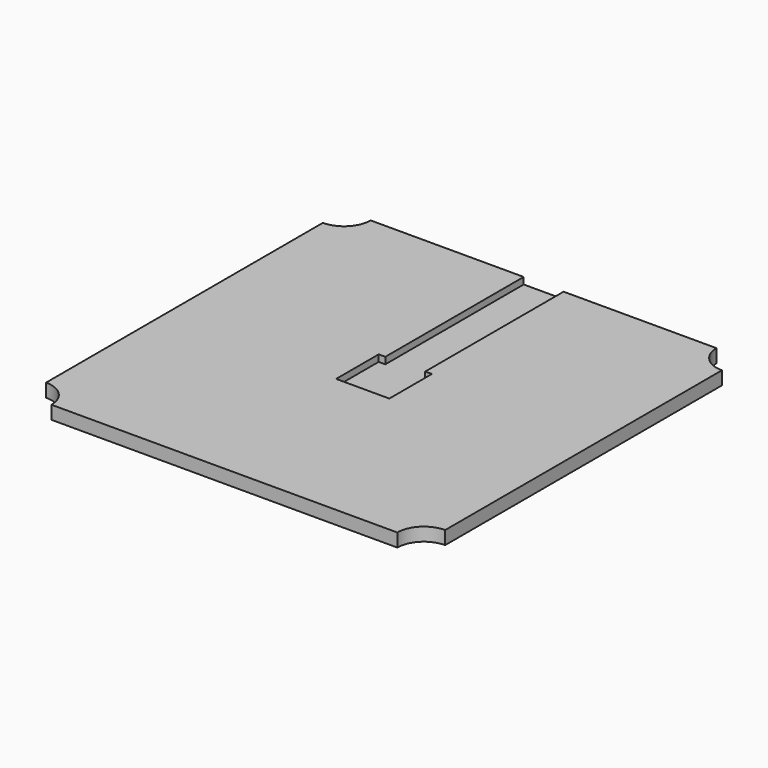
from build123d import *

# Parameters (mm, degrees)
F2_DEPTH = 10
F1_W     = 30
F1_H     = 130
F3_DEPTH = 5


with BuildPart() as f2:
    # F0 (on Top) → F2 (new body)
    with BuildSketch(Plane.XY):
        with BuildLine():
            Line((130, 150), (-130, 150))
            ThreePointArc((-130, 150), (-135.857864, 135.857864), (-150, 130))
            Line((-150, 130), (-150, -130))
            ThreePointArc((-150, -130), (-135.857864, -135.857864), (-130, -150))
            Line((-130, -150), (130, -150))
            ThreePointArc((130, -150), (135.857864, -135.857864), (150, -130))
            Line((150, -130), (150, 130))
            ThreePointArc((150, 130), (135.857864, 135.857864), (130, 150))
        make_face()
    extrude(amount=-F2_DEPTH)

    # F1 (on Top) → F3 (cut)
    with BuildSketch(Plane.XY):
        Polygon((-15, 20), (-20, 20), (-20, -20), (20, -20), (20, 20), (15, 20), align=None)
        with Locations((0, 85)):
            Rectangle(F1_W, F1_H)
    extrude(amount=-F3_DEPTH, mode=Mode.SUBTRACT)


solid = f2.part
